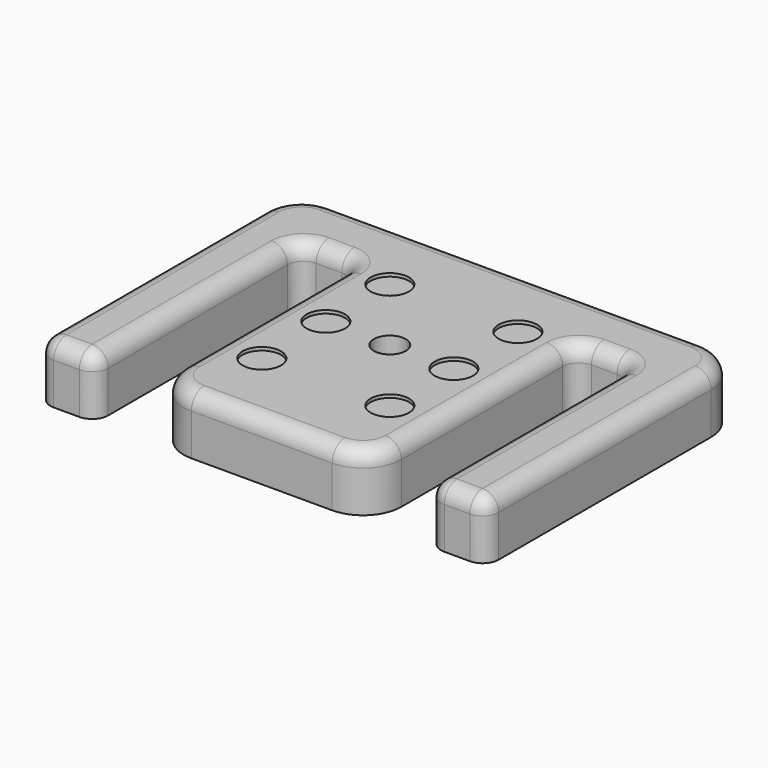
from build123d import *

# Parameters (mm, degrees)
F0_R     = 5
F1_DEPTH = 18
F2_R     = 6
F3_DEPTH = 1
F4_R     = 5


with BuildPart() as f1:
    # F0 (on Top) → F1 (new body)
    with BuildSketch(Plane.XY):
        with BuildLine():
            Line((0, -50), (22, -50))
            ThreePointArc((22, -50), (30.4852813742, -46.4852813742), (34, -38))
            Line((34, -38), (34, 25))
            ThreePointArc((34, 25), (35.4644660941, 28.5355339059), (39, 30))
            Line((39, 30), (47, 30))
            ThreePointArc((47, 30), (50.5355339059, 28.5355339059), (52, 25))
            Line((52, 25), (52, -45))
            ThreePointArc((52, -45), (53.4644660941, -48.5355339059), (57, -50))
            Line((57, -50), (65, -50))
            ThreePointArc((65, -50), (68.5355339059, -48.5355339059), (70, -45))
            Line((70, -45), (70, 38))
            ThreePointArc((70, 38), (66.4852813742, 46.4852813742), (58, 50))
            Line((58, 50), (0, 50))
            Line((0, 50), (-58, 50))
            ThreePointArc((-58, 50), (-66.4852813742, 46.4852813742), (-70, 38))
            Line((-70, 38), (-70, -45))
            ThreePointArc((-70, -45), (-68.5355339059, -48.5355339059), (-65, -50))
            Line((-65, -50), (-57, -50))
            ThreePointArc((-57, -50), (-53.4644660941, -48.5355339059), (-52, -45))
            Line((-52, -45), (-52, 25))
            ThreePointArc((-52, 25), (-50.5355339059, 28.5355339059), (-47, 30))
            Line((-47, 30), (-39, 30))
            ThreePointArc((-39, 30), (-35.4644660941, 28.5355339059), (-34, 25))
            Line((-34, 25), (-34, -38))
            ThreePointArc((-34, -38), (-30.4852813742, -46.4852813742), (-22, -50))
            Line((-22, -50), (0, -50))
        make_face()
        Circle(F0_R, mode=Mode.SUBTRACT)
    extrude(amount=F1_DEPTH)

    # F2 (on face) → F3 (cut)
    with BuildSketch(Plane.XY.offset(18)):
        with Locations((20, 0)):
            Circle(F2_R)
        with Locations((20, 25)):
            Circle(F2_R)
        with Locations((20, -25)):
            Circle(F2_R)
        with Locations((-20, 25)):
            Circle(F2_R)
        with Locations((-20, 0)):
            Circle(F2_R)
        with Locations((-20, -25)):
            Circle(F2_R)
    extrude(amount=-F3_DEPTH, mode=Mode.SUBTRACT)

    # F4
    f4_edges = [f1.edges().sort_by_distance(p)[0] for p in [
        (70, -3.5, 18),
    ]]
    fillet(f4_edges, radius=F4_R)


solid = f1.part
